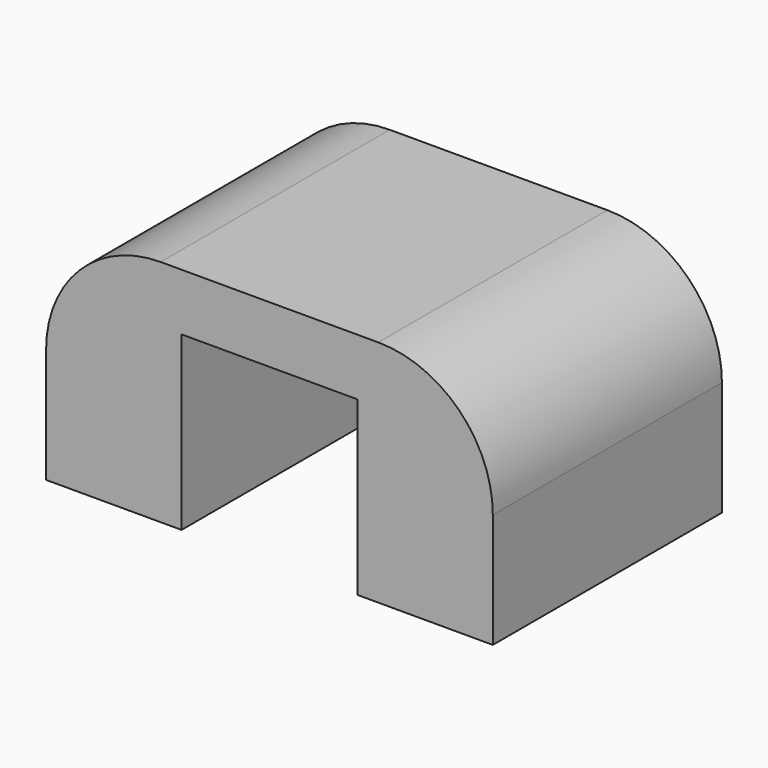
from build123d import *

# Parameters (mm, degrees)
F1_DEPTH = 63.5
F2_R     = 25.4
F3_R     = 1.3335
F3_R_2   = 1.27
F4_DEPTH = 25.4


with BuildPart() as f1:
    # F0 (on Front) → F1 (new body)
    with BuildSketch(Plane.XZ):
        Polygon((0, 50.8), (0, 0), (30.0355, 0), (30.0355, 38.1762), (69.0245, 38.1762), (69.0245, 0), (99.06, 0), (99.06, 50.8), align=None)
    extrude(amount=F1_DEPTH)

    # F2
    f2_edges = [f1.edges().sort_by_distance(p)[0] for p in [
        (99.06, -31.75, 50.8),
        (0, -31.75, 50.8),
    ]]
    fillet(f2_edges, radius=F2_R)

    # F3 (on face) → F4 (cut)
    with BuildSketch(Plane(origin=(0, 0, 0), x_dir=(1, 0, 0), z_dir=(0, 0, -1))):
        with Locations((14.7066, 34.29)):
            Circle(F3_R)
        with Locations((84.3534, 34.29)):
            Circle(F3_R)
        with Locations((14.7066, 12.7)):
            Circle(F3_R_2)
        with Locations((84.3534, 12.7)):
            Circle(F3_R_2)
        with Locations((84.3534, 50.8)):
            Circle(F3_R_2)
        with Locations((14.7066, 50.8)):
            Circle(F3_R_2)
    extrude(amount=-F4_DEPTH, mode=Mode.SUBTRACT)


solid = f1.part
